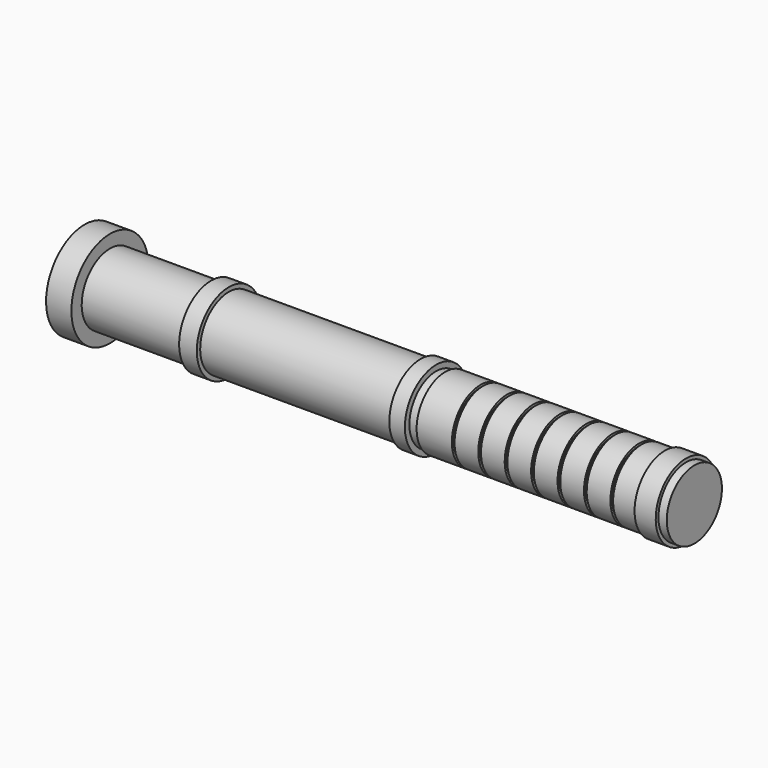
from build123d import *


with BuildPart() as f1:
    # F0 (on Front) → F1 (revolve)
    with BuildSketch(Plane.XZ):
        Polygon((15.210786, -31.456152), (15.210786, -54.995221), (313.040518, -54.995221), (313.040518, -38.153242), (308.976895, -38.153242), (308.976895, -36.485646), (298.643421, -36.485646), (298.643421, -37.531793), (287.326413, -37.531793), (287.326413, -38.667854), (285.998233, -38.667854), (285.998233, -37.531793), (274.419539, -37.531793), (274.419539, -38.667854), (273.091359, -38.667854), (273.091359, -37.531793), (261.512665, -37.531793), (261.512665, -38.667854), (260.184484, -38.667854), (260.184484, -37.531793), (248.60579, -37.531793), (248.60579, -38.667854), (247.27761, -38.667854), (247.27761, -37.531793), (235.698916, -37.531793), (235.698916, -38.667854), (234.370736, -38.667854), (234.370736, -37.531793), (222.792042, -37.531793), (222.792042, -38.667854), (221.463862, -38.667854), (221.463862, -37.531793), (209.885168, -37.531793), (209.885168, -38.667854), (208.556988, -38.667854), (208.556988, -37.531793), (191.344619, -37.531793), (191.344619, -38.667854), (186.912149, -38.667854), (186.912149, -35.909556), (179.316387, -35.909556), (179.316387, -37.516352), (85.647231, -37.516352), (85.647231, -35.448381), (77.018022, -35.448381), (77.018022, -37.746424), (27.582207, -37.746424), (27.582207, -31.456152), align=None)
    revolve(axis=Axis((163.084014, 0, -54.995221), (1, 0, 0)))


solid = f1.part
